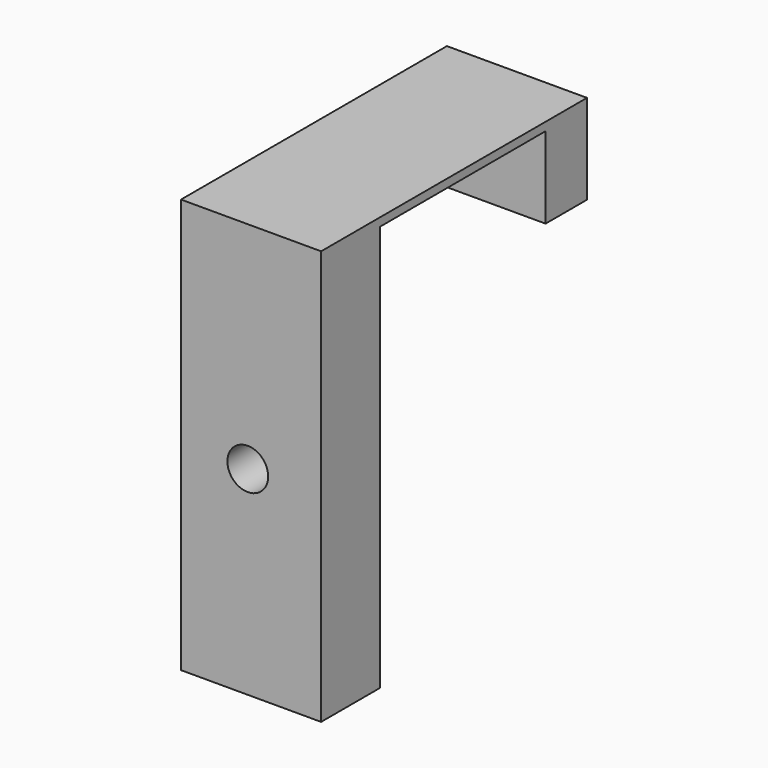
from build123d import *

# Parameters (mm, degrees)
F0_W      = 50.8
F0_H      = 76.2
F1_DEPTH  = 50.8
F2_W      = 118.1567646563
F2_H      = 84.5074988902
F3_DEPTH  = 25.4
F7_W      = 50.8
F7_H      = 65.2
F8_DEPTH  = 25.4
F10_DEPTH = 2
F11_R     = 2.5
F12_DEPTH = 25.4
F13_W     = 50.8
F13_H     = 25.4
F14_DEPTH = 25.4
F16_DEPTH = 76.2
F17_W     = 20.6161607057
F17_H     = 59.5903657377
F18_DEPTH = 50.8
F19_W     = 15.1074826717
F19_H     = 54.0688689798
F20_DEPTH = 12.7
F21_DEPTH = 12.7


with BuildPart() as f1:
    # F0 (on Front) → F1 (new body)
    with BuildSketch(Plane.XZ):
        Rectangle(F0_W, F0_H)
    extrude(amount=F1_DEPTH)


with BuildPart() as f3:
    # F2 (on Front) → F3 (new body)
    with BuildSketch(Plane.XZ):
        with Locations((1.1794324964, -5.1696989685)):
            Rectangle(F2_W, F2_H)
    extrude(amount=F3_DEPTH)


with BuildPart() as f3_1:
    # F4: moved
    add(f3.part.moved(Location((0, -6.35, 0))))


with BuildPart() as f1_1:
    add(f1.part)

    # F5: cut F3
    add(f3_1.part, mode=Mode.SUBTRACT)

    # F7 (on face) → F8 (cut)
    with BuildSketch(Plane(origin=(0, 0, 0), x_dir=(-1, 0, 0), z_dir=(0, 1, 0))):
        with Locations((0, -5.5)):
            Rectangle(F7_W, F7_H)
    extrude(amount=-F8_DEPTH, mode=Mode.SUBTRACT)

    # F9 (on face) → F10 (cut)
    with BuildSketch(Plane(origin=(0, -31.75, 0), x_dir=(-1, 0, 0), z_dir=(0, 1, 0))):
        with BuildLine():
            Line((-6, 11.6840504766), (6, 11.6840504766))
            ThreePointArc((6, 11.6840504766), (0, 17.6840504766), (-6, 11.6840504766))
        make_face()
        with BuildLine():
            ThreePointArc((-6, 11.6840504766), (0, 5.6840504766), (6, 11.6840504766))
            Line((6, 11.6840504766), (-6, 11.6840504766))
        make_face()
    extrude(amount=-F10_DEPTH, mode=Mode.SUBTRACT)

    # F11 (on face) → F12 (cut)
    with BuildSketch(Plane(origin=(0, -31.75, 0), x_dir=(-1, 0, 0), z_dir=(0, 1, 0))):
        with Locations((0, 11.6840504766)):
            Circle(F11_R)
    extrude(amount=-F12_DEPTH, mode=Mode.SUBTRACT)

    # F13 (on face) → F14 (cut)
    with BuildSketch(Plane.XZ.offset(50.8)):
        with Locations((0, -25.4)):
            Rectangle(F13_W, F13_H)
    extrude(amount=-F14_DEPTH, mode=Mode.SUBTRACT)

    # F15 (on Front) → F16 (cut)
    with BuildSketch(Plane.XZ):
        Polygon((28.8663152605, 38.4073257446), (8.9931758121, 38.4073257446), (8.9931758121, -14.9972904474), (32.6694212854, -14.9972904474), (32.6694212854, 38.4073257446), align=None)
    extrude(amount=F16_DEPTH, mode=Mode.SUBTRACT)

    # F17 (on Front) → F18 (cut)
    with BuildSketch(Plane.XZ):
        with Locations((-18.4944430366, 13.4912934154)):
            Rectangle(F17_W, F17_H)
    extrude(amount=F18_DEPTH, mode=Mode.SUBTRACT)

    # F19 (on Right) → F20 (cut)
    with BuildSketch(Plane.YZ):
        with Locations((-48.3041740954, 12.0263481513)):
            Rectangle(F19_W, F19_H)
    extrude(amount=-F20_DEPTH, mode=Mode.SUBTRACT)

    # F19 (on Right) → F21 (cut)
    with BuildSketch(Plane.YZ):
        with Locations((-48.3041740954, 12.0263481513)):
            Rectangle(F19_W, F19_H)
    extrude(amount=F21_DEPTH, mode=Mode.SUBTRACT)


solid = f1_1.part
